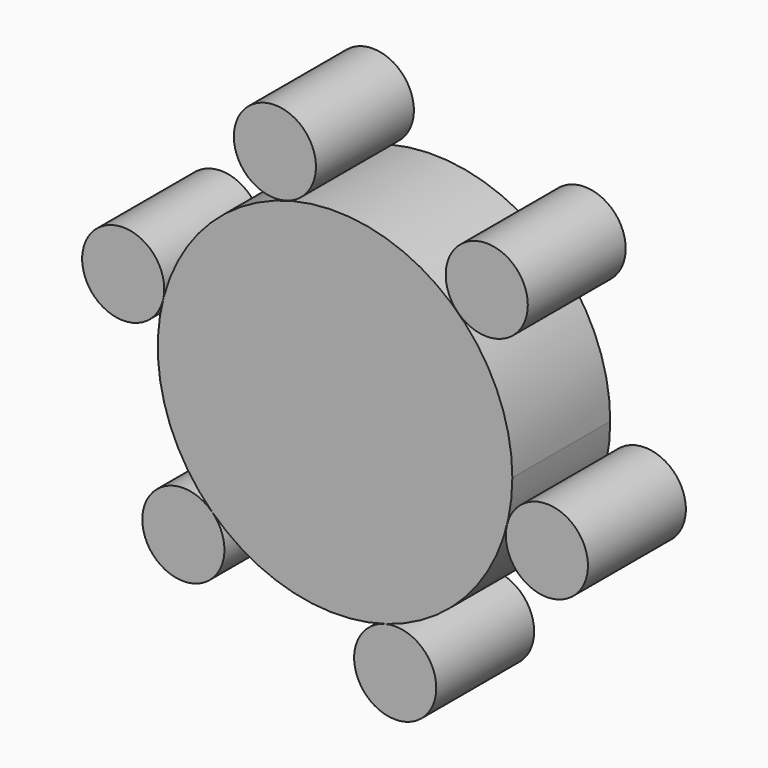
from build123d import *

# Parameters (mm, degrees)
F1_DEPTH = 35
F2_COUNT = 6


with BuildPart() as f1:
    # F0 (on Front) → F1 (new body)
    with BuildSketch(Plane.XZ):
        with BuildLine():
            ThreePointArc((-35.2249818584, -36.4668834065), (19.8075326585, -46.6722035294), (50.7014095693, 0))
            ThreePointArc((50.7014095693, 0), (-19.8075326585, 46.6722035294), (-35.2249818584, -36.4668834065))
        make_face()
    extrude(amount=F1_DEPTH)


with BuildPart() as f1b:
    # F0 (on Front) → F1, piece 2 (new body)
    with BuildSketch(Plane.XZ):
        with BuildLine():
            ThreePointArc((-31.6409544508, -44.911875061), (-32.5740370201, -40.3248516116), (-35.2249818584, -36.4668834065))
            ThreePointArc((-35.2249818584, -36.4668834065), (-54.1907103011, -49.4988985105), (-31.6409544508, -44.911875061))
        make_face()
    extrude(amount=F1_DEPTH)


with BuildPart() as f2_1:
    # F2: instance of F1b
    add(f1b.part.rotate(Axis((0, -35, 0), (0, 1, 0)), 1 * 360 / F2_COUNT))


with BuildPart() as f2_2:
    # F2: instance of F1b
    add(f1b.part.rotate(Axis((0, -35, 0), (0, 1, 0)), 2 * 360 / F2_COUNT))


with BuildPart() as f2_3:
    # F2: instance of F1b
    add(f1b.part.rotate(Axis((0, -35, 0), (0, 1, 0)), 3 * 360 / F2_COUNT))


with BuildPart() as f2_4:
    # F2: instance of F1b
    add(f1b.part.rotate(Axis((0, -35, 0), (0, 1, 0)), 4 * 360 / F2_COUNT))


with BuildPart() as f2_5:
    # F2: instance of F1b
    add(f1b.part.rotate(Axis((0, -35, 0), (0, 1, 0)), 5 * 360 / F2_COUNT))


solid = Compound([f1.part, f1b.part, f2_1.part, f2_2.part, f2_3.part, f2_4.part, f2_5.part])
